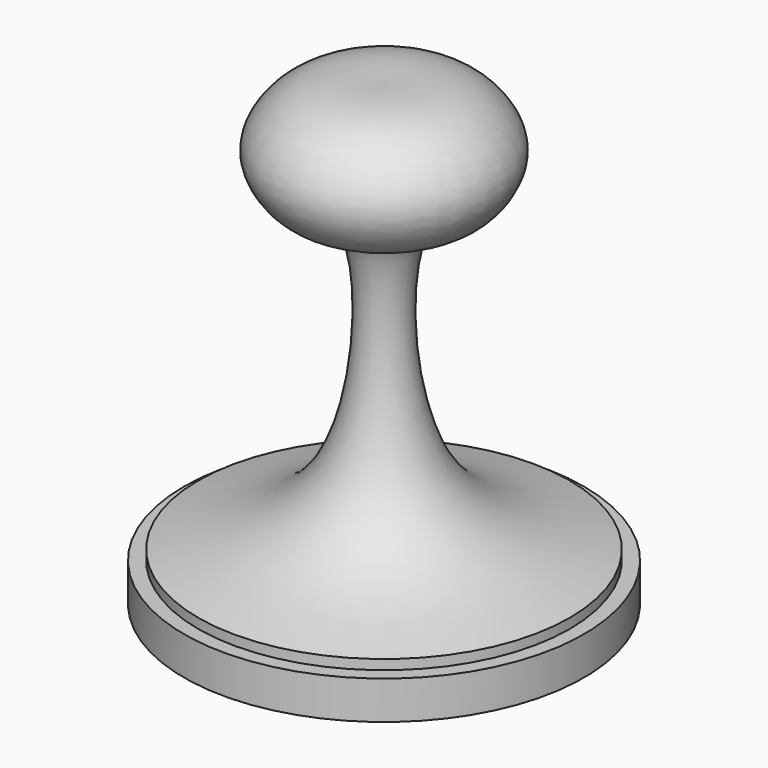
from build123d import *


with BuildPart() as f1:
    # F0 (on Front) → F1 (revolve)
    with BuildSketch(Plane.XZ):
        with BuildLine():
            Line((0, -55.3010292351), (0, 44.0055020154))
            add(Edge.make_bspline(
                [(-40.0050021708, -44.9467971921), (-28.6150949088, -42.0828747554), (-4.1102230291, -35.9212747729), (-3.7204685965, 21.328971649), (-15.8925711883, 18.2897029112), (-22.5595254673, 23.8767125738), (-25.8905013632, 32.891096594), (-16.4320909336, 44.5896923447), (-5.7016302635, 44.208205206), (0, 44.0055020154)],
                knots=[0, 0, 0, 0, 0.20382467, 0.4385195866, 0.5341869036, 0.6328005568, 0.735070826, 0.8592298837, 1, 1, 1, 1], degree=3))
            Line((-40.0050021708, -44.9467971921), (-40.0050021708, -47.0647066832))
            Line((-40.0050021708, -47.0647066832), (-43.0642068386, -47.0647066832))
            Line((-43.0642068386, -47.0647066832), (-43.0642068386, -55.3010292351))
            Line((-43.0642068386, -55.3010292351), (0, -55.3010292351))
        make_face()
    revolve(axis=Axis((0, 0, 0.3529861569), (0, 0, -1)))


solid = f1.part
